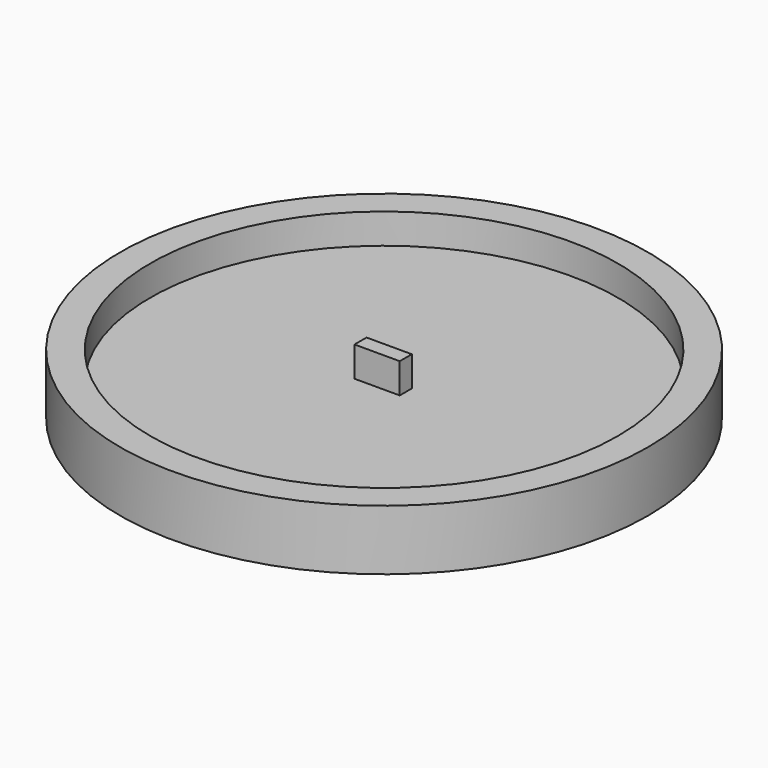
from build123d import *

# Parameters (mm, degrees)
F3_DEPTH = 4


with BuildPart() as f1:
    # F0 (on Front) → F1 (revolve)
    with BuildSketch(Plane.XZ):
        Polygon((31, 0), (0, 0), (0, -4), (35, -4), (35, 4), (31, 4), align=None)
    revolve(axis=Axis((0, 0, -2), (0, 0, 1)))


with BuildPart() as f3:
    # F2 (on face) → F3 (new body)
    with BuildSketch(Plane.XY):
        Polygon((-0.125001, 0.999748), (-3.125001, 0.999748), (-3.125001, -1.000252), (2.874999, -1.000252), (2.874999, 0.999748), align=None)
    extrude(amount=F3_DEPTH)


solid = Compound([f1.part, f3.part])
